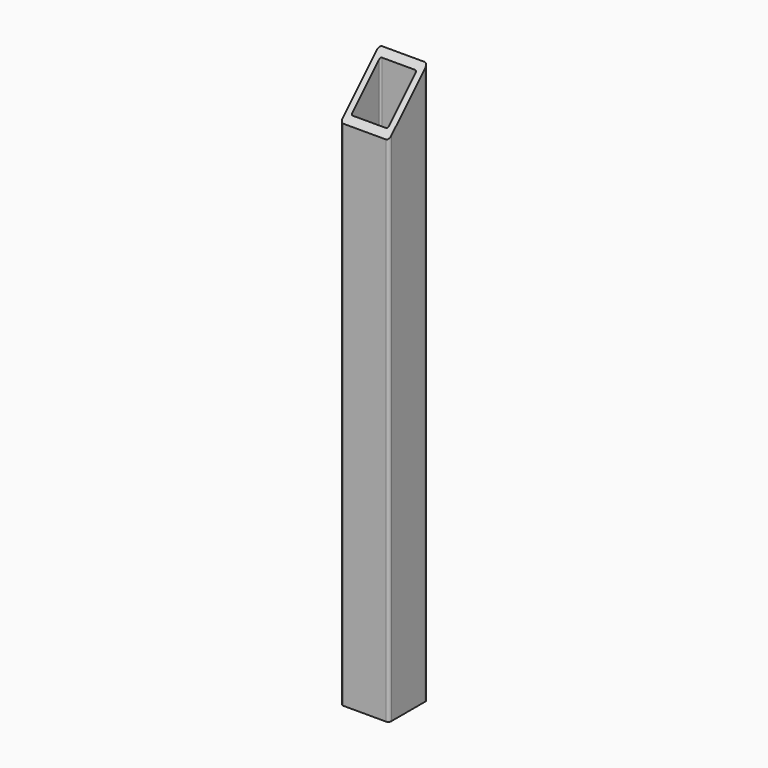
from build123d import *

# Parameters (mm, degrees)
F1_DEPTH = 587.375
F3_DEPTH = 50.801


with BuildPart() as f1:
    # F0 (on Top) → F1 (new body)
    with BuildSketch(Plane.XY):
        with BuildLine():
            Line((22.225, 25.4), (-22.225, 25.4))
            ThreePointArc((-22.225, 25.4), (-24.470064, 24.470064), (-25.4, 22.225))
            Line((-25.4, 22.225), (-25.4, -22.225))
            ThreePointArc((-25.4, -22.225), (-24.470064, -24.470064), (-22.225, -25.4))
            Line((-22.225, -25.4), (22.225, -25.4))
            ThreePointArc((22.225, -25.4), (24.470064, -24.470064), (25.4, -22.225))
            Line((25.4, -22.225), (25.4, 22.225))
            ThreePointArc((25.4, 22.225), (24.470064, 24.470064), (22.225, 25.4))
        make_face()
        with BuildLine():
            ThreePointArc((-19.05, 17.4625), (-18.585032, 18.585032), (-17.4625, 19.05))
            Line((-17.4625, 19.05), (17.4625, 19.05))
            ThreePointArc((17.4625, 19.05), (18.585032, 18.585032), (19.05, 17.4625))
            Line((19.05, 17.4625), (19.05, -17.4625))
            ThreePointArc((19.05, -17.4625), (18.585032, -18.585032), (17.4625, -19.05))
            Line((17.4625, -19.05), (-17.4625, -19.05))
            ThreePointArc((-17.4625, -19.05), (-18.585032, -18.585032), (-19.05, -17.4625))
            Line((-19.05, -17.4625), (-19.05, 17.4625))
        make_face(mode=Mode.SUBTRACT)
    extrude(amount=F1_DEPTH)

    # F2 (on face) → F3 (cut, through all)
    with BuildSketch(Plane.YZ.offset(25.4)):
        Polygon((-25.4, 536.575), (25.4, 587.375), (-25.4, 587.375), align=None)
    extrude(amount=-F3_DEPTH, mode=Mode.SUBTRACT)


solid = f1.part
